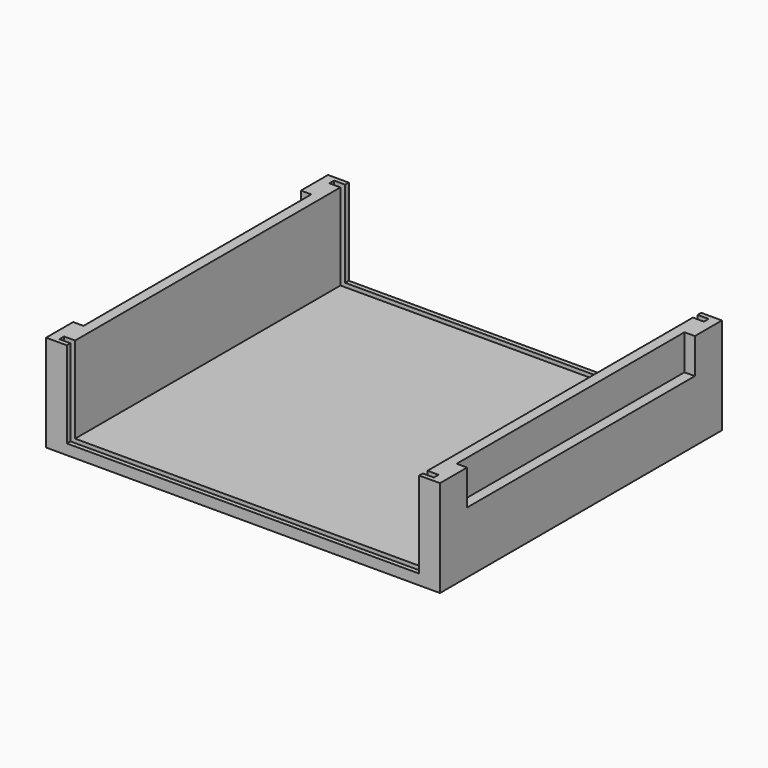
from build123d import *

# Parameters (mm, degrees)
SKETCH_W        = 114
SKETCH_H        = 102
PAD_DEPTH       = 3
SKETCH001_W     = 6
SKETCH001_H     = 102
PAD001_DEPTH    = 25
SKETCH002_W     = 6
SKETCH002_H     = 102
PAD002_DEPTH    = 25
SKETCH003_W     = 82.4
SKETCH003_H     = 10.2
POCKET_DEPTH    = 3
SKETCH004_W     = 82.4
SKETCH004_H     = 10.2
POCKET001_DEPTH = 3
SKETCH005_W     = 1.7
SKETCH005_H     = 25
POCKET002_DEPTH = 3.2
SKETCH006_W     = 102
SKETCH006_H     = 1.7
POCKET003_DEPTH = 1.6
SKETCH007_W     = 3.2
SKETCH007_H     = 1.7
POCKET004_DEPTH = 1.6
SKETCH008_W     = 1.7
SKETCH008_H     = 25
POCKET005_DEPTH = 3.2
SKETCH010_W     = 3.2
SKETCH010_H     = 1.7
POCKET006_DEPTH = 1.6
SKETCH011_W     = 1.7
SKETCH011_H     = 25
POCKET007_DEPTH = 3.2
SKETCH012_W     = 102
SKETCH012_H     = 1.7
POCKET008_DEPTH = 1.6
SKETCH013_W     = 3.2
SKETCH013_H     = 1.7
POCKET009_DEPTH = 1.6
SKETCH014_W     = 1.7
SKETCH014_H     = 25
POCKET010_DEPTH = 3.2
SKETCH015_W     = 3.2
SKETCH015_H     = 1.7
POCKET011_DEPTH = 1.6


with BuildPart() as part:
    # Sketch → Pad (new body)
    with BuildSketch(Plane.XY):
        with Locations((57, -51)):
            Rectangle(SKETCH_W, SKETCH_H)
    extrude(amount=PAD_DEPTH)

    # Sketch001 (on Face6 of Pad) → Pad001 (join)
    with BuildSketch(Plane.XY.offset(3)):
        with Locations((3, -51)):
            Rectangle(SKETCH001_W, SKETCH001_H)
    extrude(amount=PAD001_DEPTH)

    # Sketch002 (on Face6 of Pad001) → Pad002 (join)
    with BuildSketch(Plane.XY.offset(3)):
        with Locations((111, -51)):
            Rectangle(SKETCH002_W, SKETCH002_H)
    extrude(amount=PAD002_DEPTH)

    # Sketch003 (on Face10 of Pad002) → Pocket (cut)
    with BuildSketch(Plane.YZ.offset(114)):
        with Locations((-51, 22.9)):
            Rectangle(SKETCH003_W, SKETCH003_H)
    extrude(amount=-POCKET_DEPTH, mode=Mode.SUBTRACT)

    # Sketch004 (on Face9 of Pocket) → Pocket001 (cut)
    with BuildSketch(Plane(origin=(0, 0, 0), x_dir=(0, -1, 0), z_dir=(-1, 0, 0))):
        with Locations((51, 22.9)):
            Rectangle(SKETCH004_W, SKETCH004_H)
    extrude(amount=-POCKET001_DEPTH, mode=Mode.SUBTRACT)

    # Sketch005 (on Face11 of Pocket001) → Pocket002 (cut)
    with BuildSketch(Plane.YZ.offset(6)):
        with Locations((-99.85, 15.5)):
            Rectangle(SKETCH005_W, SKETCH005_H)
    extrude(amount=-POCKET002_DEPTH, mode=Mode.SUBTRACT)

    # Sketch006 (on Face6 of Pocket002) → Pocket003 (cut)
    with BuildSketch(Plane.XY.offset(3)):
        with Locations((57, -99.85)):
            Rectangle(SKETCH006_W, SKETCH006_H)
    extrude(amount=-POCKET003_DEPTH, mode=Mode.SUBTRACT)

    # Sketch007 (on Face35 of Pocket003) → Pocket004 (cut)
    with BuildSketch(Plane.XY.offset(3)):
        with Locations((4.4, -99.85)):
            Rectangle(SKETCH007_W, SKETCH007_H)
    extrude(amount=-POCKET004_DEPTH, mode=Mode.SUBTRACT)

    # Sketch008 (on Face13 of Pocket004) → Pocket005 (cut)
    with BuildSketch(Plane(origin=(108, 0, 0), x_dir=(0, -1, 0), z_dir=(-1, 0, 0))):
        with Locations((99.85, 15.5)):
            Rectangle(SKETCH008_W, SKETCH008_H)
    extrude(amount=-POCKET005_DEPTH, mode=Mode.SUBTRACT)

    # Sketch010 (on Face41 of Pocket005) → Pocket006 (cut)
    with BuildSketch(Plane.XY.offset(3)):
        with Locations((109.6, -99.85)):
            Rectangle(SKETCH010_W, SKETCH010_H)
    extrude(amount=-POCKET006_DEPTH, mode=Mode.SUBTRACT)

    # Sketch011 (on Face11 of Pocket006) → Pocket007 (cut)
    with BuildSketch(Plane.YZ.offset(6)):
        with Locations((-2.15, 15.5)):
            Rectangle(SKETCH011_W, SKETCH011_H)
    extrude(amount=-POCKET007_DEPTH, mode=Mode.SUBTRACT)

    # Sketch012 (on Face6 of Pocket007) → Pocket008 (cut)
    with BuildSketch(Plane.XY.offset(3)):
        with Locations((57, -2.15)):
            Rectangle(SKETCH012_W, SKETCH012_H)
    extrude(amount=-POCKET008_DEPTH, mode=Mode.SUBTRACT)

    # Sketch013 (on Face44 of Pocket008) → Pocket009 (cut)
    with BuildSketch(Plane.XY.offset(3)):
        with Locations((4.4, -2.15)):
            Rectangle(SKETCH013_W, SKETCH013_H)
    extrude(amount=-POCKET009_DEPTH, mode=Mode.SUBTRACT)

    # Sketch014 (on Face13 of Pocket009) → Pocket010 (cut)
    with BuildSketch(Plane(origin=(108, 0, 0), x_dir=(0, -1, 0), z_dir=(-1, 0, 0))):
        with Locations((2.15, 15.5)):
            Rectangle(SKETCH014_W, SKETCH014_H)
    extrude(amount=-POCKET010_DEPTH, mode=Mode.SUBTRACT)

    # Sketch015 (on Face53 of Pocket010) → Pocket011 (cut)
    with BuildSketch(Plane.XY.offset(3)):
        with Locations((109.6, -2.15)):
            Rectangle(SKETCH015_W, SKETCH015_H)
    extrude(amount=-POCKET011_DEPTH, mode=Mode.SUBTRACT)


solid = part.part
